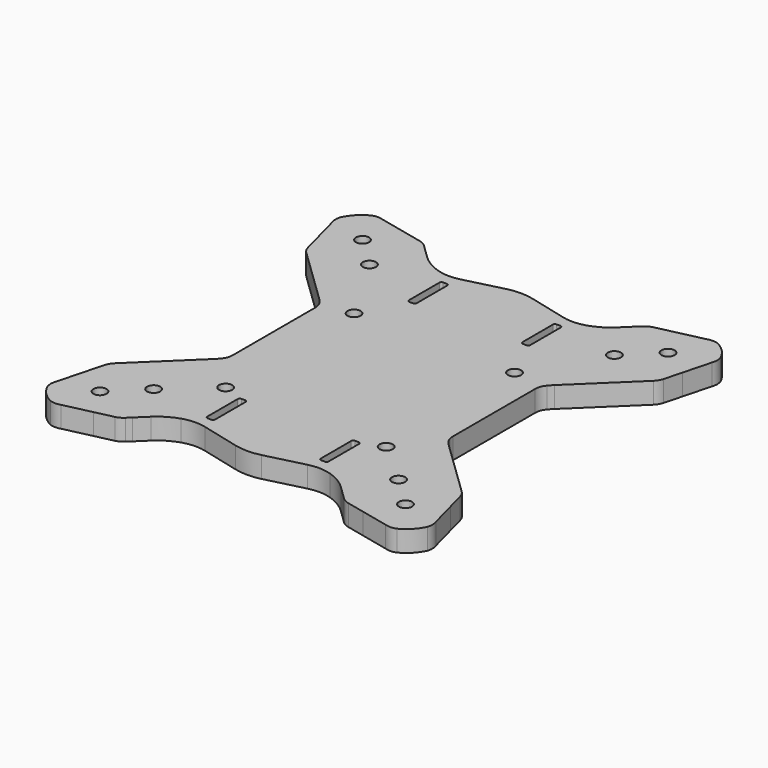
from build123d import *

# Parameters (mm, degrees)
F0_R     = 1.25
F1_DEPTH = 4


with BuildPart() as f1:
    # F0 (on Top) → F1 (new body)
    with BuildSketch(Plane.XY):
        with BuildLine():
            ThreePointArc((21.584305, 11.679198), (21.963351, 12.114397), (22.366871, 12.527004))
            Line((22.366871, 12.527004), (32.982551, 22.772845))
            ThreePointArc((32.982551, 22.772845), (33.486537, 23.413044), (33.799674, 24.165243))
            Line((33.799674, 24.165243), (34.68968, 27.534472))
            Line((34.68968, 27.534472), (36.072638, 32.76983))
            ThreePointArc((36.072638, 32.76983), (36.264823, 33.801613), (36.08985, 34.836454))
            ThreePointArc((36.08985, 34.836454), (34.783822, 36.740244), (32.927522, 38.112932))
            ThreePointArc((32.927522, 38.112932), (31.899533, 38.324475), (30.861587, 38.168982))
            Line((30.861587, 38.168982), (25.580499, 36.972463))
            Line((25.580499, 36.972463), (22.18184, 36.20244))
            ThreePointArc((22.18184, 36.20244), (21.419015, 35.916161), (20.761354, 35.435184))
            Line((20.761354, 35.435184), (20.002936, 34.703188))
            Line((20.002936, 34.703188), (18.041918, 32.81049))
            ThreePointArc((18.041918, 32.81049), (16.234056, 31.42594), (14.159835, 30.486285))
            ThreePointArc((14.159835, 30.486285), (11.966375, 30.106), (9.753047, 30.344882))
            Line((9.753047, 30.344882), (2.492354, 32.176444))
            ThreePointArc((2.492354, 32.176444), (0, 32.485953), (-2.492354, 32.176444))
            Line((-2.492354, 32.176444), (-9.753047, 30.344882))
            ThreePointArc((-9.753047, 30.344882), (-11.966375, 30.106), (-14.159835, 30.486285))
            ThreePointArc((-14.159835, 30.486285), (-16.234056, 31.42594), (-18.041918, 32.81049))
            Line((-18.041918, 32.81049), (-20.002936, 34.703188))
            Line((-20.002936, 34.703188), (-20.761354, 35.435184))
            ThreePointArc((-20.761354, 35.435184), (-21.419015, 35.916161), (-22.18184, 36.20244))
            Line((-22.18184, 36.20244), (-25.580499, 36.972463))
            Line((-25.580499, 36.972463), (-30.861587, 38.168982))
            ThreePointArc((-30.861587, 38.168982), (-31.899533, 38.324475), (-32.927522, 38.112932))
            ThreePointArc((-32.927522, 38.112932), (-34.783822, 36.740244), (-36.08985, 34.836454))
            ThreePointArc((-36.08985, 34.836454), (-36.264823, 33.801613), (-36.072638, 32.76983))
            Line((-36.072638, 32.76983), (-34.68968, 27.534472))
            Line((-34.68968, 27.534472), (-33.799674, 24.165243))
            ThreePointArc((-33.799674, 24.165243), (-33.486537, 23.413044), (-32.982551, 22.772845))
            Line((-32.982551, 22.772845), (-22.366871, 12.527004))
            ThreePointArc((-22.366871, 12.527004), (-21.963351, 12.114397), (-21.584305, 11.679198))
            ThreePointArc((-21.584305, 11.679198), (-21.078061, 10.786271), (-20.902461, 9.774951))
            Line((-20.902461, 9.774951), (-20.902461, -9.774951))
            ThreePointArc((-20.902461, -9.774951), (-21.078061, -10.786271), (-21.584305, -11.679198))
            ThreePointArc((-21.584305, -11.679198), (-21.963351, -12.114397), (-22.366871, -12.527004))
            Line((-22.366871, -12.527004), (-32.982551, -22.772845))
            ThreePointArc((-32.982551, -22.772845), (-33.486537, -23.413044), (-33.799674, -24.165243))
            Line((-33.799674, -24.165243), (-34.68968, -27.534472))
            Line((-34.68968, -27.534472), (-36.072638, -32.76983))
            ThreePointArc((-36.072638, -32.76983), (-36.264823, -33.801613), (-36.08985, -34.836454))
            ThreePointArc((-36.08985, -34.836454), (-34.783822, -36.740244), (-32.927522, -38.112932))
            ThreePointArc((-32.927522, -38.112932), (-31.899533, -38.324475), (-30.861587, -38.168982))
            Line((-30.861587, -38.168982), (-25.580499, -36.972463))
            Line((-25.580499, -36.972463), (-22.18184, -36.20244))
            ThreePointArc((-22.18184, -36.20244), (-21.419015, -35.916161), (-20.761354, -35.435184))
            Line((-20.761354, -35.435184), (-20.002936, -34.703188))
            Line((-20.002936, -34.703188), (-18.041918, -32.81049))
            ThreePointArc((-18.041918, -32.81049), (-16.234056, -31.42594), (-14.159835, -30.486285))
            ThreePointArc((-14.159835, -30.486285), (-11.966375, -30.106), (-9.753047, -30.344882))
            Line((-9.753047, -30.344882), (-2.492354, -32.176444))
            ThreePointArc((-2.492354, -32.176444), (0, -32.485953), (2.492354, -32.176444))
            Line((2.492354, -32.176444), (9.753047, -30.344882))
            ThreePointArc((9.753047, -30.344882), (11.966375, -30.106), (14.159835, -30.486285))
            ThreePointArc((14.159835, -30.486285), (16.234056, -31.42594), (18.041918, -32.81049))
            Line((18.041918, -32.81049), (20.002936, -34.703188))
            Line((20.002936, -34.703188), (20.761354, -35.435184))
            ThreePointArc((20.761354, -35.435184), (21.419015, -35.916161), (22.18184, -36.20244))
            Line((22.18184, -36.20244), (25.580499, -36.972463))
            Line((25.580499, -36.972463), (30.861587, -38.168982))
            ThreePointArc((30.861587, -38.168982), (31.899533, -38.324475), (32.927522, -38.112932))
            ThreePointArc((32.927522, -38.112932), (34.783822, -36.740244), (36.08985, -34.836454))
            ThreePointArc((36.08985, -34.836454), (36.264823, -33.801613), (36.072638, -32.76983))
            Line((36.072638, -32.76983), (34.68968, -27.534472))
            Line((34.68968, -27.534472), (33.799674, -24.165243))
            ThreePointArc((33.799674, -24.165243), (33.486537, -23.413044), (32.982551, -22.772845))
            Line((32.982551, -22.772845), (22.366871, -12.527004))
            ThreePointArc((22.366871, -12.527004), (21.963351, -12.114397), (21.584305, -11.679198))
            ThreePointArc((21.584305, -11.679198), (21.078061, -10.786271), (20.902461, -9.774951))
            Line((20.902461, -9.774951), (20.902461, 9.774951))
            ThreePointArc((20.902461, 9.774951), (21.078061, 10.786271), (21.584305, 11.679198))
        make_face()
        with Locations((-29.027586, -31.184549)):
            Circle(F0_R, mode=Mode.SUBTRACT)
        with Locations((-23.27135, -25.628853)):
            Circle(F0_R, mode=Mode.SUBTRACT)
        with BuildLine():
            ThreePointArc((-10.435595, -19.937071), (-10.152752, -20.054229), (-10.035595, -20.337071))
            Line((-10.035595, -20.337071), (-10.035595, -24.606303))
            Line((-10.035595, -24.606303), (-10.035595, -27.564576))
            ThreePointArc((-10.035595, -27.564576), (-10.152752, -27.847419), (-10.435595, -27.964576))
            Line((-10.435595, -27.964576), (-11.135595, -27.964576))
            ThreePointArc((-11.135595, -27.964576), (-11.418437, -27.847419), (-11.535595, -27.564576))
            Line((-11.535595, -27.564576), (-11.535595, -20.337071))
            ThreePointArc((-11.535595, -20.337071), (-11.418437, -20.054229), (-11.135595, -19.937071))
            Line((-11.135595, -19.937071), (-10.435595, -19.937071))
        make_face(mode=Mode.SUBTRACT)
        with Locations((-15.25, -18.549995)):
            Circle(F0_R, mode=Mode.SUBTRACT)
        with BuildLine():
            Line((11.535595, -20.337071), (11.535595, -27.564576))
            ThreePointArc((11.535595, -27.564576), (11.418437, -27.847419), (11.135595, -27.964576))
            Line((11.135595, -27.964576), (10.435595, -27.964576))
            ThreePointArc((10.435595, -27.964576), (10.152752, -27.847419), (10.035595, -27.564576))
            Line((10.035595, -27.564576), (10.035595, -24.606303))
            Line((10.035595, -24.606303), (10.035595, -20.337071))
            ThreePointArc((10.035595, -20.337071), (10.152752, -20.054229), (10.435595, -19.937071))
            Line((10.435595, -19.937071), (11.135595, -19.937071))
            ThreePointArc((11.135595, -19.937071), (11.418437, -20.054229), (11.535595, -20.337071))
        make_face(mode=Mode.SUBTRACT)
        with Locations((29.027586, -31.184549)):
            Circle(F0_R, mode=Mode.SUBTRACT)
        with Locations((23.27135, -25.628853)):
            Circle(F0_R, mode=Mode.SUBTRACT)
        with Locations((15.25, -18.549995)):
            Circle(F0_R, mode=Mode.SUBTRACT)
        with Locations((-15.25, 11.950005)):
            Circle(F0_R, mode=Mode.SUBTRACT)
        with Locations((-23.27135, 25.628853)):
            Circle(F0_R, mode=Mode.SUBTRACT)
        with Locations((-29.027586, 31.184549)):
            Circle(F0_R, mode=Mode.SUBTRACT)
        with BuildLine():
            Line((-11.135595, 27.964576), (-10.435595, 27.964576))
            ThreePointArc((-10.435595, 27.964576), (-10.152752, 27.847419), (-10.035595, 27.564576))
            Line((-10.035595, 27.564576), (-10.035595, 24.606303))
            Line((-10.035595, 24.606303), (-10.035595, 20.337071))
            ThreePointArc((-10.035595, 20.337071), (-10.152752, 20.054229), (-10.435595, 19.937071))
            Line((-10.435595, 19.937071), (-11.135595, 19.937071))
            ThreePointArc((-11.135595, 19.937071), (-11.418437, 20.054229), (-11.535595, 20.337071))
            Line((-11.535595, 20.337071), (-11.535595, 27.564576))
            ThreePointArc((-11.535595, 27.564576), (-11.418437, 27.847419), (-11.135595, 27.964576))
        make_face(mode=Mode.SUBTRACT)
        with Locations((15.25, 11.950005)):
            Circle(F0_R, mode=Mode.SUBTRACT)
        with BuildLine():
            Line((10.035595, 24.606303), (10.035595, 27.564576))
            ThreePointArc((10.035595, 27.564576), (10.152752, 27.847419), (10.435595, 27.964576))
            Line((10.435595, 27.964576), (11.135595, 27.964576))
            ThreePointArc((11.135595, 27.964576), (11.418437, 27.847419), (11.535595, 27.564576))
            Line((11.535595, 27.564576), (11.535595, 20.337071))
            ThreePointArc((11.535595, 20.337071), (11.418437, 20.054229), (11.135595, 19.937071))
            Line((11.135595, 19.937071), (10.435595, 19.937071))
            ThreePointArc((10.435595, 19.937071), (10.152752, 20.054229), (10.035595, 20.337071))
            Line((10.035595, 20.337071), (10.035595, 24.606303))
        make_face(mode=Mode.SUBTRACT)
        with Locations((23.27135, 25.628853)):
            Circle(F0_R, mode=Mode.SUBTRACT)
        with Locations((29.027586, 31.184549)):
            Circle(F0_R, mode=Mode.SUBTRACT)
    extrude(amount=F1_DEPTH)


solid = f1.part
